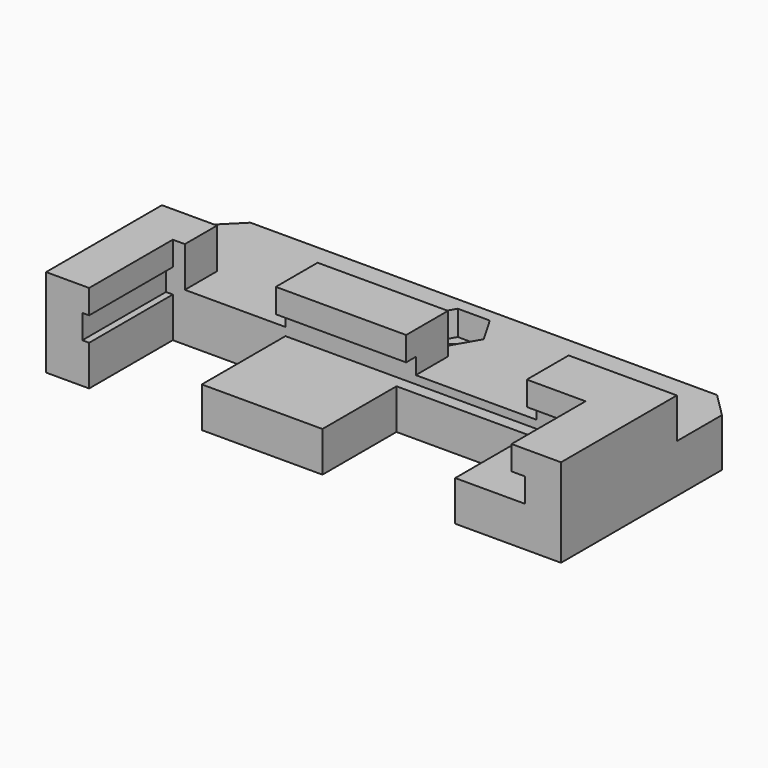
from build123d import *

# Parameters (mm, degrees)
SKETCH_R        = 2.5
PAD_DEPTH       = 11
SKETCH001_W     = 93.08528
SKETCH001_H     = 10
POCKET_DEPTH    = 5
SKETCH002_W     = 55
SKETCH002_H     = 3
POCKET001_DEPTH = 13
POCKET002_DEPTH = 3.1
POCKET003_DEPTH = 5


with BuildPart() as part:
    # Sketch → Pad (new body)
    with BuildSketch(Plane.XY):
        Polygon((-29, 0), (29, 0), (32, -3), (32, -28), (18.85, -28), (18.85, -16.5), (2.35, -16.5), (2.35, -28), (-12.65, -28), (-12.65, -15), (-26.65, -15), (-26.65, -28), (-32, -28), (-32, -3), align=None)
        with Locations((0, -5)):
            Circle(SKETCH_R, mode=Mode.SUBTRACT)
    extrude(amount=PAD_DEPTH)

    # Sketch001 (on Face17 of Pad) → Pocket (cut)
    with BuildSketch(Plane.XY.offset(11)):
        with Locations((0, -5)):
            Rectangle(SKETCH001_W, SKETCH001_H)
    extrude(amount=-POCKET_DEPTH, mode=Mode.SUBTRACT)

    # Sketch002 (on Face11 of Pocket) → Pocket001 (cut)
    with BuildSketch(Plane.XZ.offset(28)):
        with Locations((0, 6.5)):
            Rectangle(SKETCH002_W, SKETCH002_H)
    extrude(amount=-POCKET001_DEPTH, mode=Mode.SUBTRACT)

    # Sketch003 (on Face4 of Pocket001) → Pocket002 (cut)
    with BuildSketch(Plane.XY.offset(6)):
        Polygon((3.983717, -5), (1.991858, -1.55), (-1.991858, -1.55), (-3.983717, -5), (-1.991858, -8.45), (1.991858, -8.45), align=None)
    extrude(amount=-POCKET002_DEPTH, mode=Mode.SUBTRACT)

    # Sketch004 (on Face25 of Pocket002) → Pocket003 (cut)
    with BuildSketch(Plane.XY.offset(11)):
        Polygon((-25.15, -5.838694), (-12.65, -5.838694), (-12.65, -16.5), (3.55, -16.5), (3.55, -5.838694), (18.55, -5.838694), (18.55, -16.5), (25.85, -16.5), (25.85, -33.515926), (-25.15, -33.515926), align=None)
    extrude(amount=-POCKET003_DEPTH, mode=Mode.SUBTRACT)


solid = part.part
